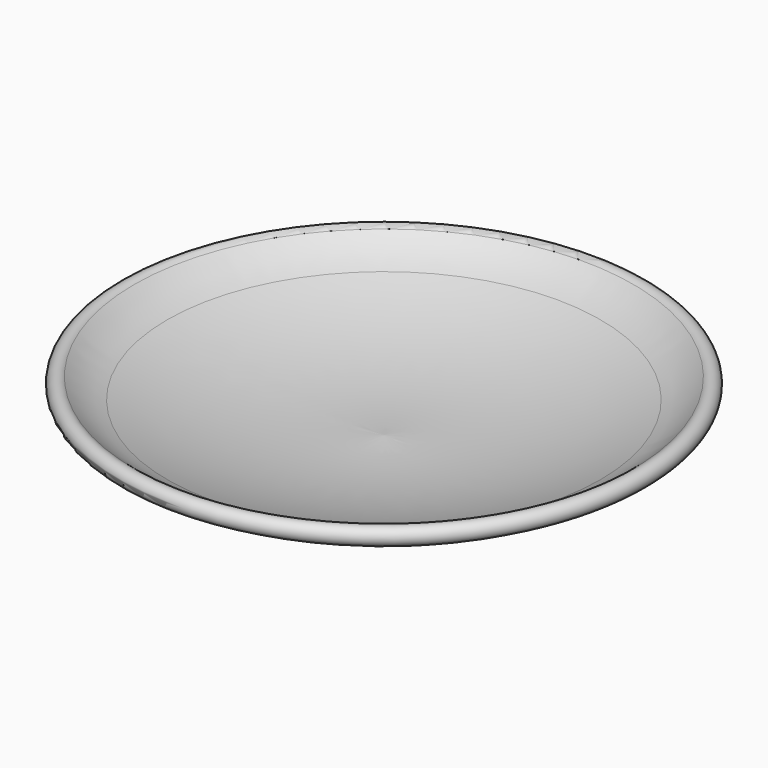
from build123d import *


with BuildPart() as f1:
    # F0 (on Front) → F1 (revolve)
    with BuildSketch(Plane.XZ):
        with BuildLine():
            Line((0, 0), (0, 11.247629))
            ThreePointArc((0, 11.247629), (-81.019881, 13.845759), (-159.487203, 34.189083))
            ThreePointArc((-159.487203, 34.189083), (-172.331336, 40.538005), (-183.752209, 49.189262))
            ThreePointArc((-183.752209, 49.189262), (-193.146417, 48.287444), (-191.252291, 39.042082))
            ThreePointArc((-191.252291, 39.042082), (-121.942115, 9.933994), (-47.427036, 0))
            Line((-47.427036, 0), (0, 0))
        make_face()
    revolve(axis=Axis((0, 0, 5.623815), (0, 0, -1)))


solid = f1.part
